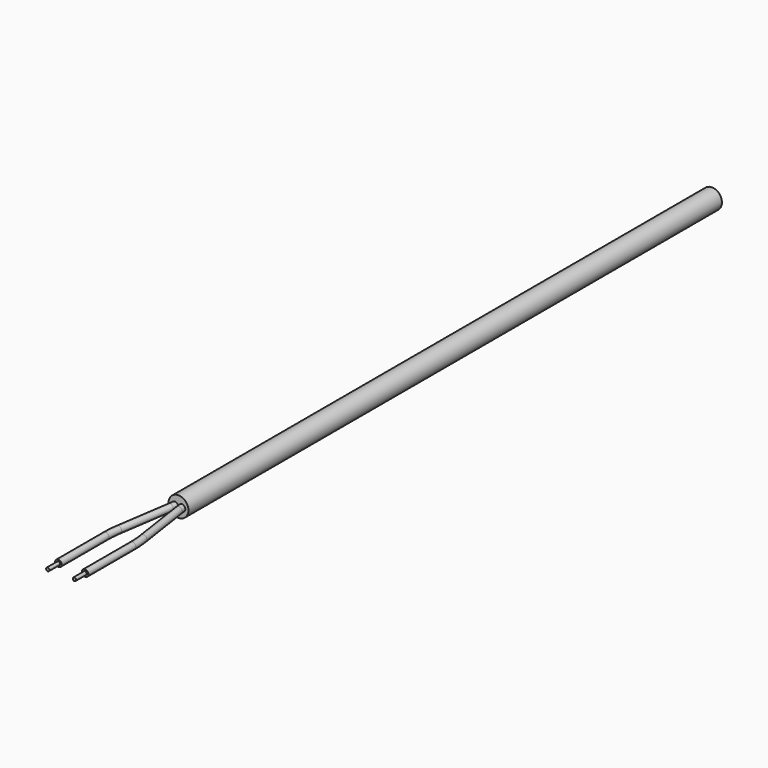
from build123d import *

# Parameters (mm, degrees)
F0_R     = 1.5
F0_R_2   = 0.5
F0_R_3   = 0.25
F1_DEPTH = 100


with BuildPart() as f1:
    # F0 (on Front) → F1 (new body)
    with BuildSketch(Plane.XZ):
        Circle(F0_R)
        with Locations((-0.5, 0)):
            Circle(F0_R_2, mode=Mode.SUBTRACT)
        with BuildLine():
            ThreePointArc((0, 0), (0.5, 0.5), (1, 0))
            ThreePointArc((1, 0), (0.5, -0.5), (0, 0))
        make_face(mode=Mode.SUBTRACT)
        with Locations((-0.5, 0)):
            Circle(F0_R_2)
        with Locations((-0.5, 0)):
            Circle(F0_R_3, mode=Mode.SUBTRACT)
        with BuildLine():
            ThreePointArc((0, 0), (0.5, -0.5), (1, 0))
            ThreePointArc((1, 0), (0.5, 0.5), (0, 0))
        make_face()
        with Locations((0.5, 0)):
            Circle(F0_R_3, mode=Mode.SUBTRACT)
        with Locations((-0.5, 0)):
            Circle(F0_R_3)
        with Locations((0.5, 0)):
            Circle(F0_R_3)
    extrude(amount=F1_DEPTH)


with BuildPart() as f3:
    # F3: sweep along a path in F2
    with BuildLine(Plane.XY) as f3_path:
        Line((0.5, 0), (0.5, -99.2541719461))
        ThreePointArc((0.5, -99.2541719461), (0.5276974753, -99.9979342446), (0.6106364713, -100.7375764754))
        Line((0.6106364713, -100.7375764754), (1.834045293, -108.8936352868))
        ThreePointArc((1.834045293, -108.8936352868), (1.958453787, -110.0030986331), (2, -111.1187420808))
        Line((2, -111.1187420808), (2, -120))
        Line((2, -120), (2, -122))
    # F0 (on Front) → F3 (sweep)
    with BuildSketch(Plane.XZ):
        with Locations((0.5, 0)):
            Circle(F0_R_3)
    sweep(path=f3_path.line)


with BuildPart() as f4:
    # F4: sweep along a path in F2
    with BuildLine(Plane.XY) as f4_path:
        Line((-2, -122), (-2, -120))
        Line((-2, -120), (-2, -111.1187420808))
        ThreePointArc((-2, -111.1187420808), (-1.958453787, -110.0030986331), (-1.834045293, -108.8936352868))
        Line((-1.834045293, -108.8936352868), (-0.6106364713, -100.7375764754))
        ThreePointArc((-0.6106364713, -100.7375764754), (-0.5276974753, -99.9979342446), (-0.5, -99.2541719461))
        Line((-0.5, -99.2541719461), (-0.5, 0))
    # F0 (on Front) → F4 (sweep)
    with BuildSketch(Plane.XZ):
        with Locations((-0.5, 0)):
            Circle(F0_R_3)
    sweep(path=f4_path.line)


with BuildPart() as f5:
    # F5: sweep along a path in F2
    with BuildLine(Plane.XY) as f5_path:
        Line((0.5, 0), (0.5, -99.2541719461))
        ThreePointArc((0.5, -99.2541719461), (0.5276974753, -99.9979342446), (0.6106364713, -100.7375764754))
        Line((0.6106364713, -100.7375764754), (1.834045293, -108.8936352868))
        ThreePointArc((1.834045293, -108.8936352868), (1.958453787, -110.0030986331), (2, -111.1187420808))
        Line((2, -111.1187420808), (2, -120))
    # F0 (on Front) → F5 (sweep)
    with BuildSketch(Plane.XZ):
        with BuildLine():
            ThreePointArc((0, 0), (0.5, -0.5), (1, 0))
            ThreePointArc((1, 0), (0.5, 0.5), (0, 0))
        make_face()
        with Locations((0.5, 0)):
            Circle(F0_R_3, mode=Mode.SUBTRACT)
    sweep(path=f5_path.line)


with BuildPart() as f6:
    # F6: sweep along a path in F2
    with BuildLine(Plane.XY) as f6_path:
        Line((-2, -120), (-2, -111.1187420808))
        ThreePointArc((-2, -111.1187420808), (-1.958453787, -110.0030986331), (-1.834045293, -108.8936352868))
        Line((-1.834045293, -108.8936352868), (-0.6106364713, -100.7375764754))
        ThreePointArc((-0.6106364713, -100.7375764754), (-0.5276974753, -99.9979342446), (-0.5, -99.2541719461))
        Line((-0.5, -99.2541719461), (-0.5, 0))
    # F0 (on Front) → F6 (sweep)
    with BuildSketch(Plane.XZ):
        with Locations((-0.5, 0)):
            Circle(F0_R_2)
        with Locations((-0.5, 0)):
            Circle(F0_R_3, mode=Mode.SUBTRACT)
    sweep(path=f6_path.line)


solid = Compound([f1.part, f3.part, f4.part, f5.part, f6.part])
